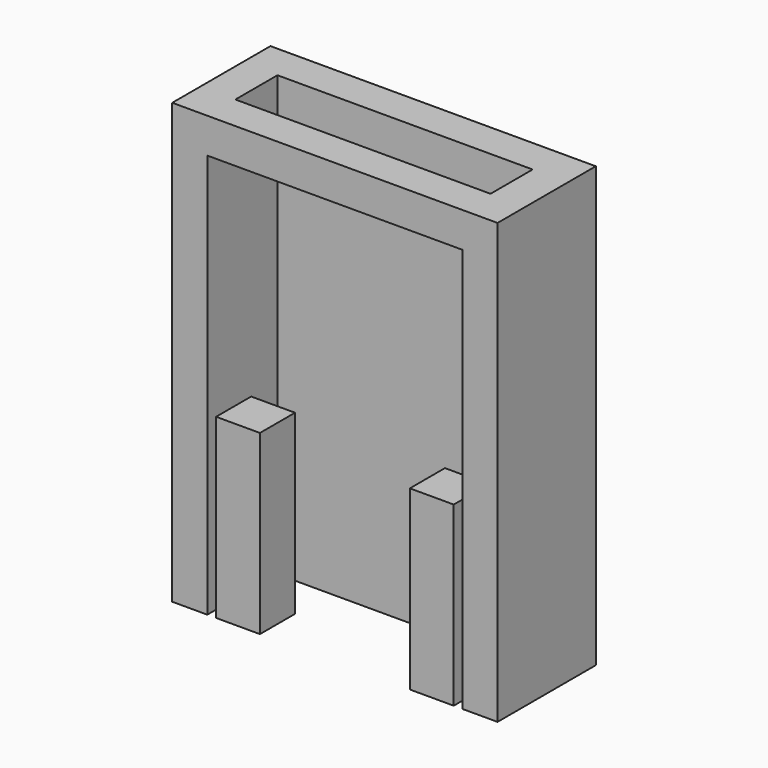
from build123d import *

# Parameters (mm, degrees)
F0_W     = 1855
F0_H     = 700
F1_DEPTH = 2505
F2_W     = 1455
F2_H     = 2305
F3_DEPTH = 500
F4_W     = 1455
F4_H     = 300
F5_DEPTH = 200.001
F6_W     = 250
F6_H     = 250
F7_DEPTH = 1010


with BuildPart() as f1:
    # F0 (on Top) → F1 (new body)
    with BuildSketch(Plane.XY):
        with Locations((0, -150)):
            Rectangle(F0_W, F0_H)
    extrude(amount=F1_DEPTH)

    # F2 (on face) → F3 (cut)
    with BuildSketch(Plane.XZ.offset(500)):
        with Locations((0, 1152.5)):
            Rectangle(F2_W, F2_H)
    extrude(amount=-F3_DEPTH, mode=Mode.SUBTRACT)

    # F4 (on face) → F5 (cut, through all)
    with BuildSketch(Plane(origin=(0, 0, 2305), x_dir=(1, 0, 0), z_dir=(0, 0, -1))):
        with Locations((0, 150)):
            Rectangle(F4_W, F4_H)
    extrude(amount=-F5_DEPTH, mode=Mode.SUBTRACT)


with BuildPart() as f7:
    # F6 (on Top) → F7 (new body)
    with BuildSketch(Plane.XY):
        with Locations((-552.5, -375)):
            Rectangle(F6_W, F6_H)
    extrude(amount=F7_DEPTH)


with BuildPart() as f8_1:
    # F8: instance of F7
    add(f7.part.mirror(Plane.YZ))


solid = Compound([f1.part, f7.part, f8_1.part])
